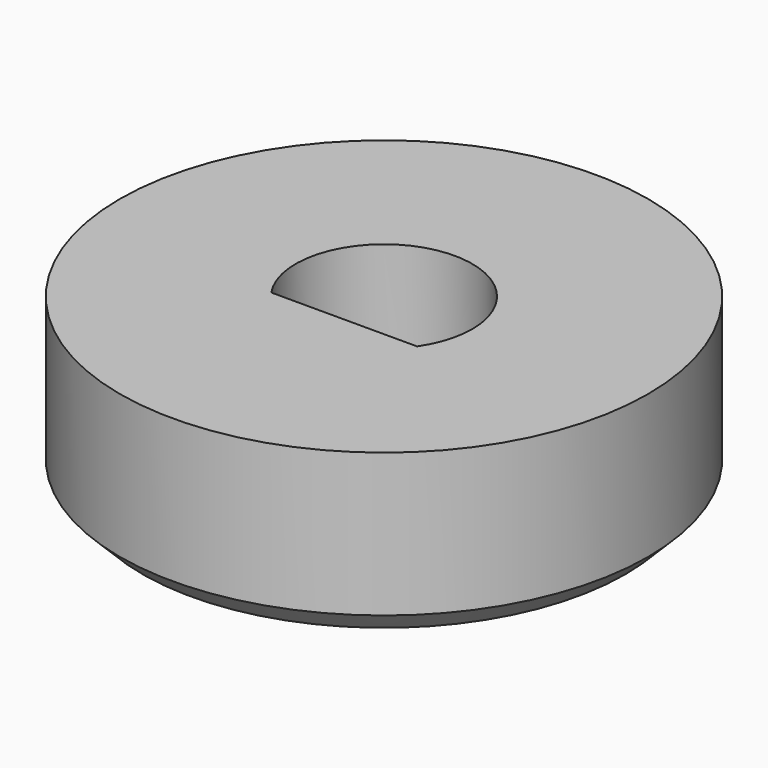
from build123d import *

# Parameters (mm, degrees)
F0_R     = 3.5
F1_DEPTH = 2.2
F2_SIZE  = 0.3


with BuildPart() as f1:
    # F0 (on Top) → F1 (new body)
    with BuildSketch(Plane.XY):
        Circle(F0_R)
        with BuildLine():
            ThreePointArc((-0.966075, -0.66), (0, 1.17), (0.966075, -0.66))
            Line((0.966075, -0.66), (-0.966075, -0.66))
        make_face(mode=Mode.SUBTRACT)
    extrude(amount=F1_DEPTH)

    # F2
    f2_edges = [f1.edges().sort_by_distance(p)[0] for p in [
        (-3.5, 0, 0),
        (0, 1.17, 0),
        (0, -0.66, 0),
    ]]
    chamfer(f2_edges, length=F2_SIZE)


solid = f1.part
